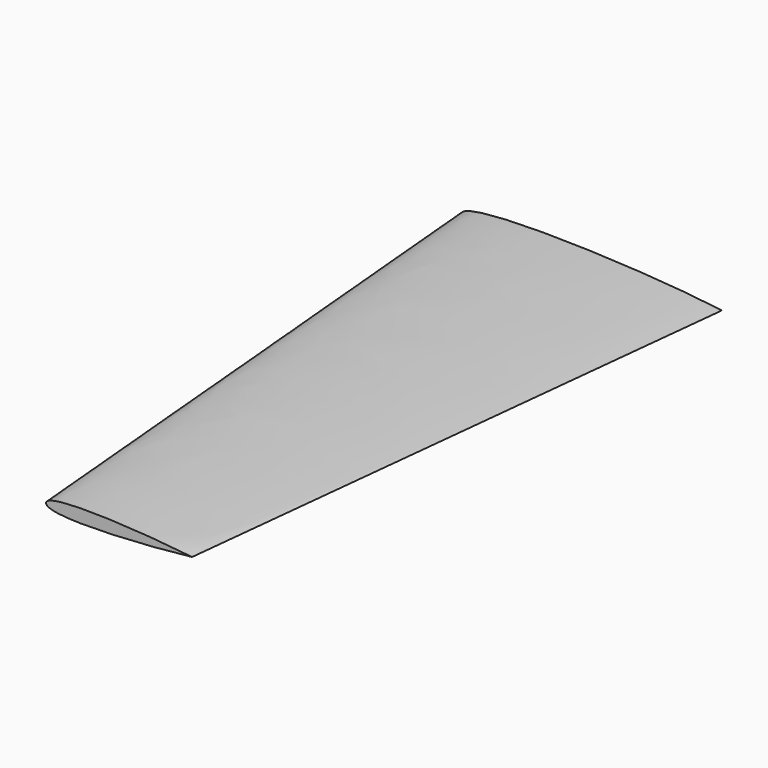
from build123d import *

# Parameters (mm, degrees)
F4_R     = 10
F5_DEPTH = 150


with BuildPart() as f3:
    # F0 (on Front) → F3 section 0
    with BuildSketch(Plane.XZ):
        with BuildLine():
            add(Edge.make_bspline(
                [(-125, 0), (-125, 24.155979), (129.529005, 15.765319), (250, 0)],
                knots=[0, 0, 0, 0, 375, 375, 375, 375], degree=3))
            add(Edge.make_bspline(
                [(-125, 0), (-125, -24.155979), (129.529005, -15.765319), (250, 0)],
                knots=[0, 0, 0, 0, 375, 375, 375, 375], degree=3))
        make_face()
    # F2 (on offset) → F3 section 1
    with BuildSketch(Plane.XZ.offset(840)):
        with BuildLine():
            add(Edge.make_bspline(
                [(-50, 0), (-50, 16.390117), (83.340638, 8.843871), (160, 0)],
                knots=[0, 0, 0, 0, 210, 210, 210, 210], degree=3))
            add(Edge.make_bspline(
                [(-50, 0), (-50, -16.390117), (83.340638, -8.843871), (160, 0)],
                knots=[0, 0, 0, 0, 210, 210, 210, 210], degree=3))
        make_face()
    loft()

    # F4 (on face) → F5 (cut)
    with BuildSketch(Plane.XZ):
        Circle(F4_R)
    extrude(amount=F5_DEPTH, mode=Mode.SUBTRACT)


solid = f3.part
